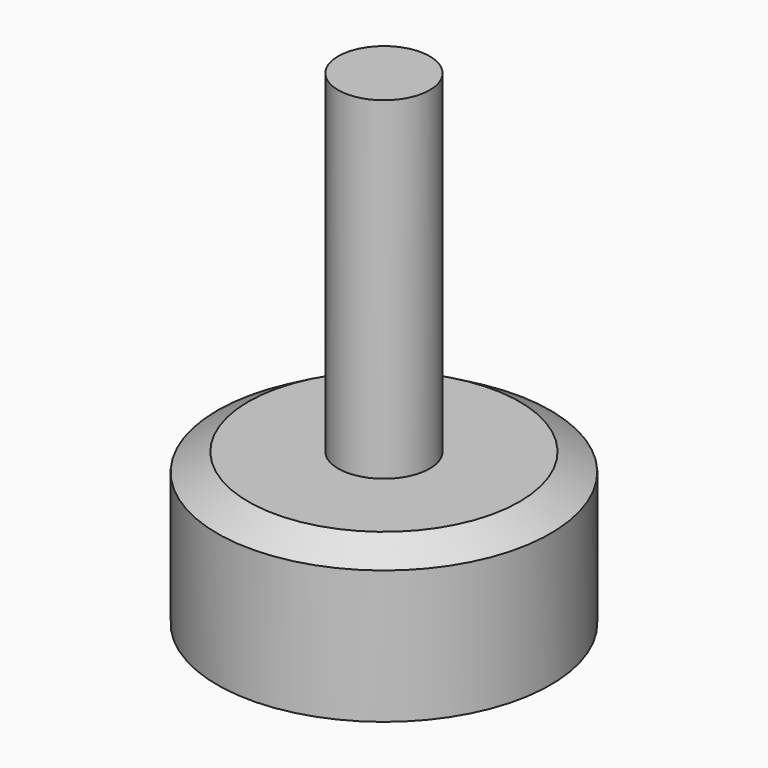
from build123d import *

# Parameters (mm, degrees)
F0_W   = 2.75
F0_H   = 20
F0_H_2 = 3
F0_H_3 = 1.0746234533


with BuildPart() as f1:
    # F0 (on Front) → F1 (revolve)
    with BuildSketch(Plane.XZ):
        with Locations((-21.9263077103, 19.0746234533)):
            Rectangle(F0_W, F0_H)
        Polygon((-23.3013077103, 8), (-30.5513077103, 8), (-30.5513077103, 0), (-23.3013077103, 0), (-23.3013077103, 5), align=None)
        Polygon((-28.6900052902, 9.0746234533), (-30.5513077103, 8), (-23.3013077103, 8), (-23.3013077103, 9.0746234533), align=None)
        with Locations((-21.9263077103, 6.5)):
            Rectangle(F0_W, F0_H_2)
        with Locations((-21.9263077103, 8.5373117267)):
            Rectangle(F0_W, F0_H_3)
    revolve(axis=Axis((-20.5513077103, 0, 19.0746234533), (0, 0, 1)))


solid = f1.part
